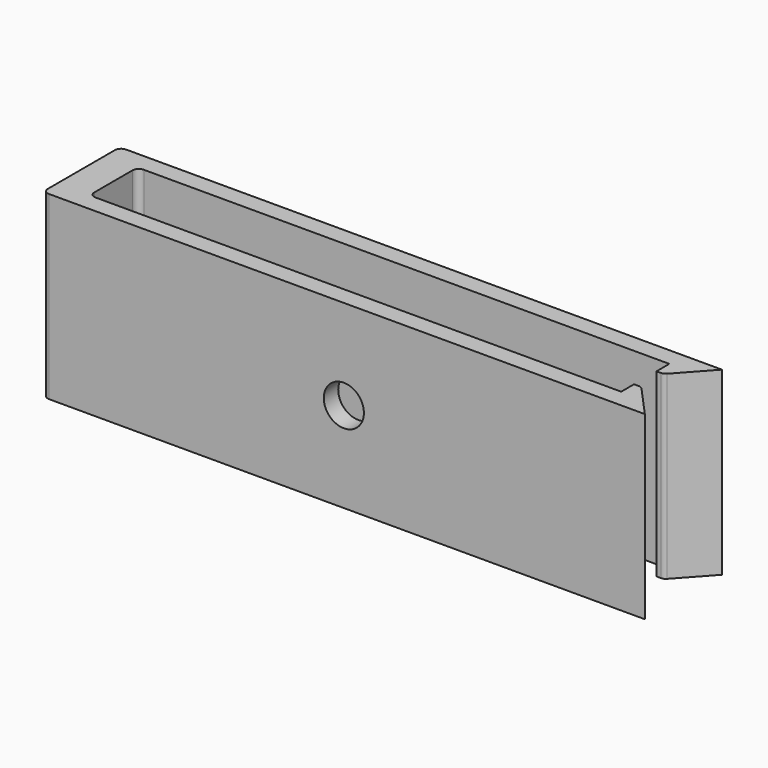
from build123d import *

# Parameters (mm, degrees)
F1_DEPTH = 9
F2_R     = 1
F3_DEPTH = 4.801


with BuildPart() as f1:
    # F0 (on Top) → F1 (new body)
    with BuildSketch(Plane.XY):
        with BuildLine():
            Line((-14.688961, -2.4), (15, -2.4))
            Line((15, -2.4), (13.552622, -0.802219))
            ThreePointArc((13.552622, -0.802219), (13.448186, -0.726701), (13.322103, -0.7))
            Line((13.322103, -0.7), (13.1, -0.7))
            Line((13.1, -0.7), (13.1, -1.5))
            Line((13.1, -1.5), (-13.088961, -1.5))
            ThreePointArc((-13.088961, -1.5), (-13.308899, -1.408899), (-13.4, -1.188961))
            Line((-13.4, -1.188961), (-13.4, 1.188961))
            ThreePointArc((-13.4, 1.188961), (-13.308899, 1.408899), (-13.088961, 1.5))
            Line((-13.088961, 1.5), (13.1, 1.5))
            Line((13.1, 1.5), (13.1, 0.7))
            Line((13.1, 0.7), (13.322103, 0.7))
            ThreePointArc((13.322103, 0.7), (13.448186, 0.726701), (13.552622, 0.802219))
            Line((13.552622, 0.802219), (15, 2.4))
            Line((15, 2.4), (-14.688961, 2.4))
            ThreePointArc((-14.688961, 2.4), (-14.908899, 2.308899), (-15, 2.088961))
            Line((-15, 2.088961), (-15, -2.088961))
            ThreePointArc((-15, -2.088961), (-14.908899, -2.308899), (-14.688961, -2.4))
        make_face()
    extrude(amount=F1_DEPTH)

    # F2 (on face) → F3 (cut, through all)
    with BuildSketch(Plane(origin=(0, 2.4, 0), x_dir=(-1, 0, 0), z_dir=(0, 1, 0))):
        with Locations((0, 4.5)):
            Circle(F2_R)
    extrude(amount=-F3_DEPTH, mode=Mode.SUBTRACT)


solid = f1.part
